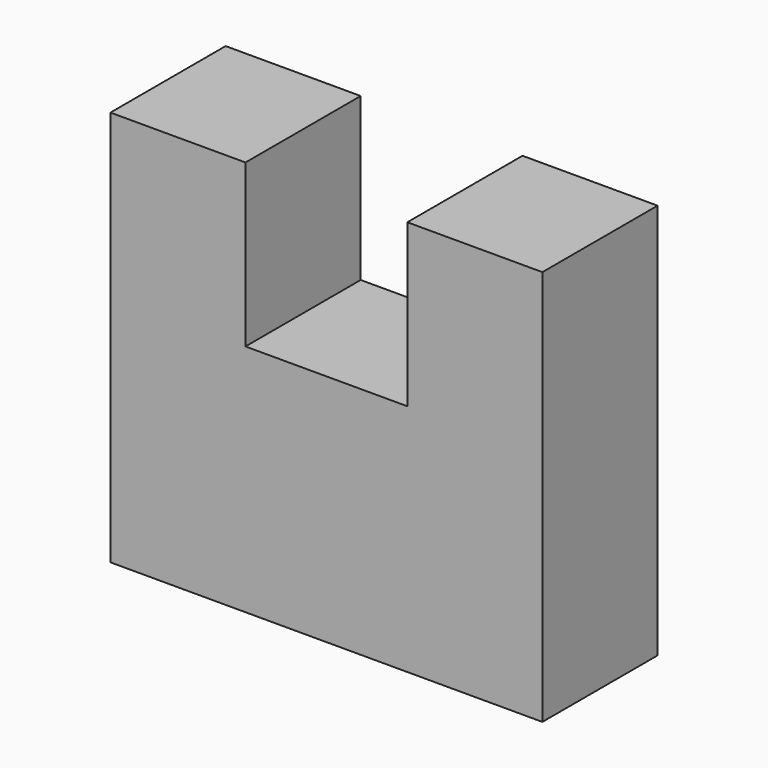
from build123d import *

# Parameters (mm, degrees)
F1_DEPTH = 25.4


with BuildPart() as f1:
    # F0 (on Front) → F1 (new body)
    with BuildSketch(Plane.XZ):
        Polygon((-23.8252, 0), (0, 0), (0, 50.8), (-23.8252, 50.8), (-23.8252, 22.225), (-52.3748, 22.225), (-52.3748, 50.8), (-76.2, 50.8), (-76.2, 0), (-52.3748, 0), align=None)
        Polygon((0, -19.05), (0, 0), (-23.8252, 0), (-52.3748, 0), (-76.2, 0), (-76.2, -19.05), align=None)
    extrude(amount=F1_DEPTH)


solid = f1.part
